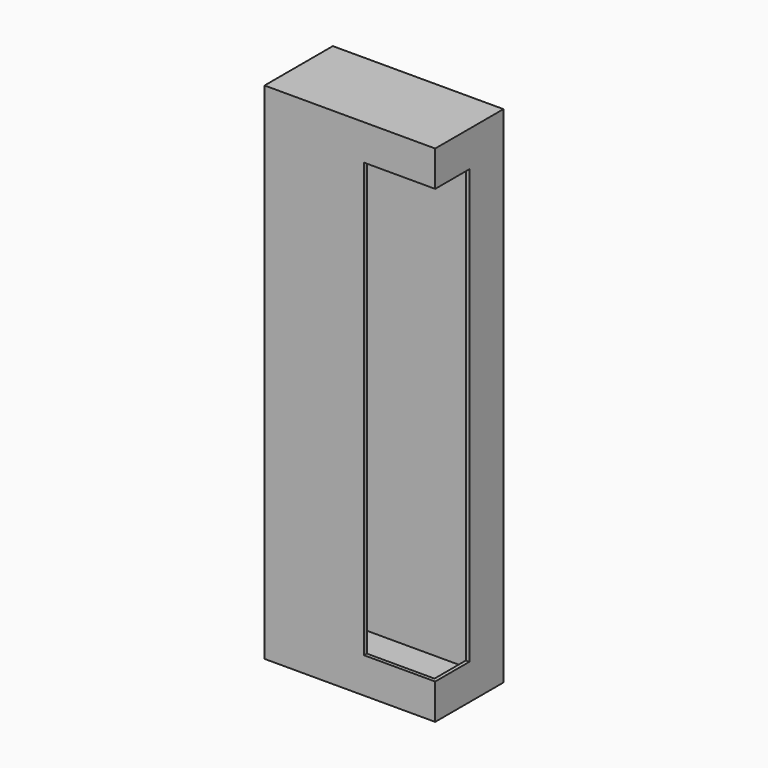
from build123d import *

# Parameters (mm, degrees)
F0_W     = 120
F0_H     = 355
F1_DEPTH = 60
F2_W     = 100
F2_H     = 305
F3_DEPTH = 30
F4_T     = -2.5


with BuildPart() as f1:
    # F0 (on Front) → F1 (new body)
    with BuildSketch(Plane.XZ):
        with Locations((60, 177.5)):
            Rectangle(F0_W, F0_H)
    extrude(amount=F1_DEPTH)

    # F2 (on face) → F3 (cut)
    with BuildSketch(Plane.XZ.offset(60)):
        with Locations((120, 177.5)):
            Rectangle(F2_W, F2_H)
    extrude(amount=-F3_DEPTH, mode=Mode.SUBTRACT)

    # F4
    f4_openings = [f1.faces().sort_by_distance(p)[0] for p in [
        (95, -45, 330),
        (70, -45, 177.5),
        (95, -30, 177.5),
        (95, -45, 25),
    ]]
    offset(amount=F4_T, openings=f4_openings)


solid = f1.part
